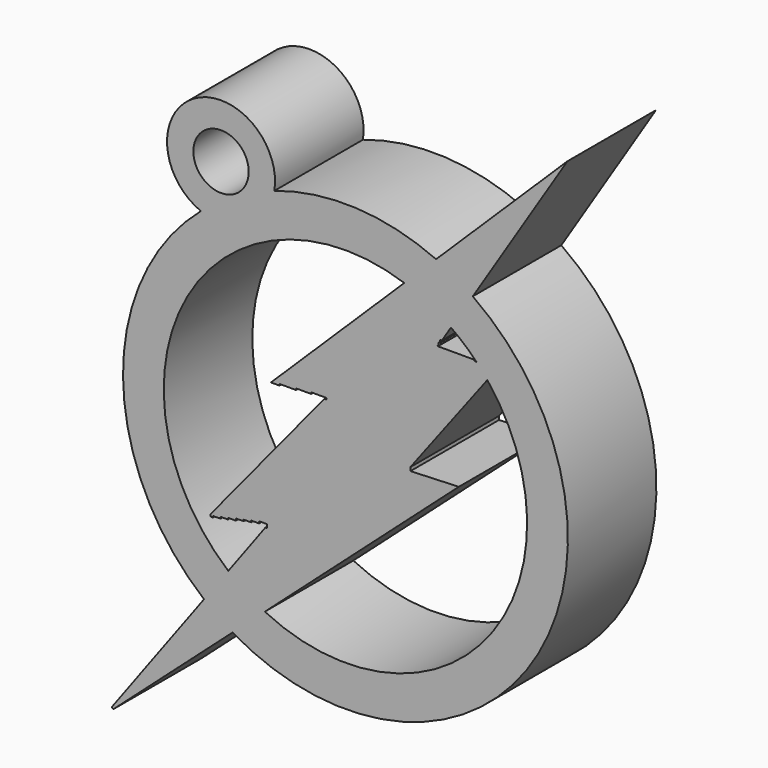
from build123d import *

# Parameters (mm, degrees)
F1_R     = 10.426057
F1_R_2   = 1.5875
F2_DEPTH = 6.35
F3_DEPTH = 6.35


with BuildPart() as f2:
    # F1 (on Front) → F2 (new body)
    with BuildSketch(Plane.XZ):
        with BuildLine():
            ThreePointArc((15.519298, 30.554377), (10.928129, 33.728629), (11.300258, 28.159407))
            ThreePointArc((11.300258, 28.159407), (25.896719, 7.359578), (15.519298, 30.554377))
        make_face()
        with Locations((19.59583, 18.459385)):
            Circle(F1_R, mode=Mode.SUBTRACT)
        with Locations((12.457868, 31.033801)):
            Circle(F1_R_2, mode=Mode.SUBTRACT)
    extrude(amount=F2_DEPTH)

    # F0 (on Front) → F3 (join)
    with BuildSketch(Plane.XZ):
        Polygon((25.129177, 26.117954), (32.333359, 37.515946), (15.319627, 20.808231), (15.802965, 20.808231), (15.802965, 20.893212), (16.759016, 20.893212), (16.759016, 20.978196), (17.630085, 20.978196), (17.630085, 21.063179), (18.506467, 21.063179), (18.506467, 20.978196), (18.384304, 20.978196), (11.83995, 13.0127), (11.83995, 12.901361), (11.993659, 12.901361), (11.993659, 12.984364), (12.427119, 12.984364), (12.427119, 13.082738), (12.851357, 13.082738), (12.851357, 13.17189), (13.302342, 13.17189), (13.302342, 13.28754), (13.756311, 13.28754), (13.756311, 13.372659), (14.185456, 13.372659), (14.185456, 13.464872), (14.642972, 13.464872), (14.642972, 13.578364), (15.089849, 13.578364), (15.089849, 13.372659), (15.001183, 13.372659), (6.182067, 1.436029), (6.279744, 1.363862), (26.100319, 19.04314), (23.327032, 18.933799), (23.319191, 19.132684), (28.188484, 25.565702), (28.188484, 25.684502), (26.990166, 25.684502), (26.990166, 25.751648), (24.876347, 25.751648), (24.876347, 25.776967), (24.934566, 25.776967), (24.934566, 25.968254), (25.032703, 25.964927), (25.032703, 26.117954), align=None)
    extrude(amount=F3_DEPTH)


solid = f2.part
